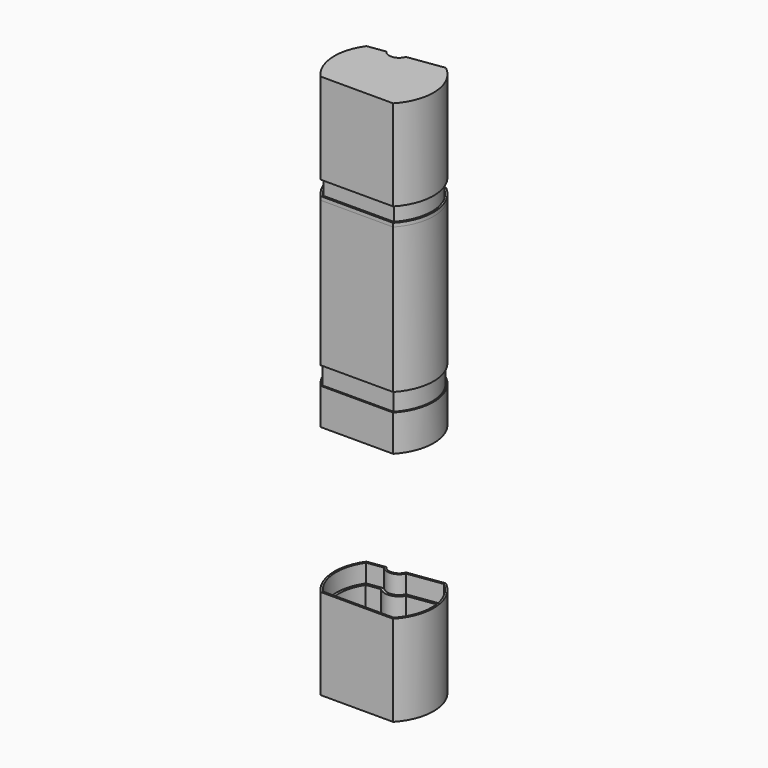
from build123d import *

# Parameters (mm, degrees)
F1_DEPTH  = 100
F3_DEPTH  = 10
F5_DEPTH  = 10
F7_DEPTH  = 2
F9_DEPTH  = 50
F10_DEPTH = 10
F11_START = 48
F11_DEPTH = 2
F13_DEPTH = 20


with BuildPart() as f1:
    # F0 (on Top) → F1 (new body)
    with BuildSketch(Plane.XY):
        with BuildLine():
            Line((-12.0897765349, -15.731314094), (27.9102234651, -15.731314094))
            ThreePointArc((27.9102234651, -15.731314094), (35.186552736, 4.9027765722), (25.0045970812, 24.268685906))
            Line((25.0045970812, 24.268685906), (5.1992357064, 21.4852238868))
            ThreePointArc((5.1992357064, 21.4852238868), (0.7654520553, 17.832613514), (-4.5033702016, 20.1216115537))
            Line((-4.5033702016, 20.1216115537), (-14.406050889, 18.7298805441))
            ThreePointArc((-14.406050889, 18.7298805441), (-19.3764079278, 1.0873626828), (-12.0897765349, -15.731314094))
        make_face()
        with BuildLine():
            ThreePointArc((-11.0175789214, -13.331314094), (-16.9820661814, 1.2521155975), (-13.0181733872, 16.5013478326))
            Line((-13.0181733872, 16.5013478326), (-5.4545185869, 17.5643501916))
            ThreePointArc((-5.4545185869, 17.5643501916), (1.0994674976, 15.455970149), (6.8184149763, 19.2891985189))
            Line((6.8184149763, 19.2891985189), (24.284750464, 21.7439318875))
            ThreePointArc((24.284750464, 21.7439318875), (32.7925833849, 4.7326981573), (26.8380258517, -13.331314094))
            Line((26.8380258517, -13.331314094), (-11.0175789214, -13.331314094))
        make_face(mode=Mode.SUBTRACT)
    extrude(amount=F1_DEPTH)

    # F2 (on face) → F3 (cut)
    with BuildSketch(Plane(origin=(0, 0, 0), x_dir=(1, 0, 0), z_dir=(0, 0, -1))):
        with BuildLine():
            Line((27.9102234651, 15.731314094), (-12.0897765349, 15.731314094))
            ThreePointArc((-12.0897765349, 15.731314094), (-19.3764079278, -1.0873626828), (-14.406050889, -18.7298805441))
            Line((-14.406050889, -18.7298805441), (-4.5033702016, -20.1216115537))
            ThreePointArc((-4.5033702016, -20.1216115537), (0.7654520553, -17.832613514), (5.1992357064, -21.4852238868))
            Line((5.1992357064, -21.4852238868), (25.0045970812, -24.268685906))
            ThreePointArc((25.0045970812, -24.268685906), (35.186552736, -4.9027765722), (27.9102234651, 15.731314094))
        make_face()
        with BuildLine():
            ThreePointArc((5.7736073555, -20.7580844998), (0.876790536, -17.040399059), (-4.8550648892, -19.2643220307))
            Line((-4.8550648892, -19.2643220307), (-13.9498000809, -17.9861403555))
            ThreePointArc((-13.9498000809, -17.9861403555), (-18.5782946315, -1.1422885446), (-11.7388791707, 14.931314094))
            Line((-11.7388791707, 14.931314094), (27.559326101, 14.931314094))
            ThreePointArc((27.559326101, 14.931314094), (34.3885624209, -4.846091997), (24.7710232347, -23.4279971846))
            Line((24.7710232347, -23.4279971846), (5.7736073555, -20.7580844998))
        make_face(mode=Mode.SUBTRACT)
    extrude(amount=-F3_DEPTH, mode=Mode.SUBTRACT)

    # F4 (on face) → F5 (cut)
    with BuildSketch(Plane.XY.offset(100)):
        with BuildLine():
            Line((-4.5033702016, 20.1216115537), (-14.406050889, 18.7298805441))
            ThreePointArc((-14.406050889, 18.7298805441), (-19.3764079278, 1.0873626828), (-12.0897765349, -15.731314094))
            Line((-12.0897765349, -15.731314094), (27.9102234651, -15.731314094))
            ThreePointArc((27.9102234651, -15.731314094), (35.186552736, 4.9027765722), (25.0045970812, 24.268685906))
            Line((25.0045970812, 24.268685906), (5.1992357064, 21.4852238868))
            ThreePointArc((5.1992357064, 21.4852238868), (0.7654520553, 17.832613514), (-4.5033702016, 20.1216115537))
        make_face()
        with BuildLine():
            ThreePointArc((-11.5610592762, -14.531314094), (-18.1792377522, 1.1697483945), (-13.7193495518, 17.6145970362))
            Line((-13.7193495518, 17.6145970362), (-5.0163959343, 18.837717402))
            ThreePointArc((-5.0163959343, 18.837717402), (0.9324597764, 16.6442918315), (6.0462768814, 20.3924746735))
            Line((6.0462768814, 20.3924746735), (24.6519111864, 23.0073260489))
            ThreePointArc((24.6519111864, 23.0073260489), (33.9895674633, 4.8177466261), (27.3815062065, -14.531314094))
            Line((27.3815062065, -14.531314094), (-11.5610592762, -14.531314094))
        make_face(mode=Mode.SUBTRACT)
    extrude(amount=-F5_DEPTH, mode=Mode.SUBTRACT)


with BuildPart() as f7:
    # F6 (on face) → F7 (new body)
    with BuildSketch(Plane.XY.offset(90)):
        with BuildLine():
            Line((-4.5033702016, 20.1216115537), (-14.406050889, 18.7298805441))
            ThreePointArc((-14.406050889, 18.7298805441), (-19.3764079278, 1.0873626828), (-12.0897765349, -15.731314094))
            Line((-12.0897765349, -15.731314094), (27.9102234651, -15.731314094))
            ThreePointArc((27.9102234651, -15.731314094), (35.186552736, 4.9027765722), (25.0045970812, 24.268685906))
            Line((25.0045970812, 24.268685906), (5.1992357064, 21.4852238868))
            ThreePointArc((5.1992357064, 21.4852238868), (0.7654520553, 17.832613514), (-4.5033702016, 20.1216115537))
        make_face()
        with BuildLine():
            ThreePointArc((-11.6501712904, -14.731314094), (-18.3787662112, 1.1560187267), (-13.8347729453, 17.8003408506))
            Line((-13.8347729453, 17.8003408506), (-4.9368157389, 19.0508671835))
            ThreePointArc((-4.9368157389, 19.0508671835), (0.9046251562, 16.8423454453), (5.9110274456, 20.5754321194))
            Line((5.9110274456, 20.5754321194), (24.7116653394, 23.217689462))
            ThreePointArc((24.7116653394, 23.217689462), (34.1890649255, 4.8319195689), (27.4706182207, -14.731314094))
            Line((27.4706182207, -14.731314094), (-11.6501712904, -14.731314094))
        make_face(mode=Mode.SUBTRACT)
    extrude(amount=F7_DEPTH)


with BuildPart() as f9:
    # F8 (on face) → F9 (new body)
    with BuildSketch(Plane.XY.offset(100)):
        with BuildLine():
            Line((-4.5033702016, 20.1216115537), (-14.406050889, 18.7298805441))
            ThreePointArc((-14.406050889, 18.7298805441), (-19.3764079278, 1.0873626828), (-12.0897765349, -15.731314094))
            Line((-12.0897765349, -15.731314094), (27.9102234651, -15.731314094))
            ThreePointArc((27.9102234651, -15.731314094), (35.186552736, 4.9027765722), (25.0045970812, 24.268685906))
            Line((25.0045970812, 24.268685906), (5.1992357064, 21.4852238868))
            ThreePointArc((5.1992357064, 21.4852238868), (0.7654520553, 17.832613514), (-4.5033702016, 20.1216115537))
        make_face()
        with BuildLine():
            Line((-13.8347729453, 17.8003408506), (-4.9368157389, 19.0508671835))
            ThreePointArc((-4.9368157389, 19.0508671835), (0.9046251562, 16.8423454453), (5.9110274456, 20.5754321194))
            Line((5.9110274456, 20.5754321194), (24.7116653394, 23.217689462))
            ThreePointArc((24.7116653394, 23.217689462), (34.1890649255, 4.8319195689), (27.4706182207, -14.731314094))
            Line((27.4706182207, -14.731314094), (-11.6501712904, -14.731314094))
            ThreePointArc((-11.6501712904, -14.731314094), (-18.3787662112, 1.1560187267), (-13.8347729453, 17.8003408506))
        make_face(mode=Mode.SUBTRACT)
        with BuildLine():
            ThreePointArc((5.9110274456, 20.5754321194), (0.9046251562, 16.8423454453), (-4.9368157389, 19.0508671835))
            Line((-4.9368157389, 19.0508671835), (-13.8347729453, 17.8003408506))
            ThreePointArc((-13.8347729453, 17.8003408506), (-18.3787662112, 1.1560187267), (-11.6501712904, -14.731314094))
            Line((-11.6501712904, -14.731314094), (27.4706182207, -14.731314094))
            ThreePointArc((27.4706182207, -14.731314094), (34.1890649255, 4.8319195689), (24.7116653394, 23.217689462))
            Line((24.7116653394, 23.217689462), (5.9110274456, 20.5754321194))
        make_face()
        with BuildLine():
            ThreePointArc((-11.5610592762, -14.531314094), (-18.1792377522, 1.1697483945), (-13.7193495518, 17.6145970362))
            Line((-13.7193495518, 17.6145970362), (-5.0163959343, 18.837717402))
            ThreePointArc((-5.0163959343, 18.837717402), (0.9324597764, 16.6442918315), (6.0462768814, 20.3924746735))
            Line((6.0462768814, 20.3924746735), (24.6519111864, 23.0073260489))
            ThreePointArc((24.6519111864, 23.0073260489), (33.9895674633, 4.8177466261), (27.3815062065, -14.531314094))
            Line((27.3815062065, -14.531314094), (-11.5610592762, -14.531314094))
        make_face(mode=Mode.SUBTRACT)
        with BuildLine():
            Line((-5.0163959343, 18.837717402), (-13.7193495518, 17.6145970362))
            ThreePointArc((-13.7193495518, 17.6145970362), (-18.1792377522, 1.1697483945), (-11.5610592762, -14.531314094))
            Line((-11.5610592762, -14.531314094), (27.3815062065, -14.531314094))
            ThreePointArc((27.3815062065, -14.531314094), (33.9895674633, 4.8177466261), (24.6519111864, 23.0073260489))
            Line((24.6519111864, 23.0073260489), (6.0462768814, 20.3924746735))
            ThreePointArc((6.0462768814, 20.3924746735), (0.9324597764, 16.6442918315), (-5.0163959343, 18.837717402))
        make_face()
        with BuildLine():
            ThreePointArc((-11.0175789214, -13.331314094), (-16.9820661814, 1.2521155975), (-13.0181733872, 16.5013478326))
            Line((-13.0181733872, 16.5013478326), (-5.4545185869, 17.5643501916))
            ThreePointArc((-5.4545185869, 17.5643501916), (1.0994674976, 15.455970149), (6.8184149763, 19.2891985189))
            Line((6.8184149763, 19.2891985189), (24.284750464, 21.7439318875))
            ThreePointArc((24.284750464, 21.7439318875), (32.7925833849, 4.7326981573), (26.8380258517, -13.331314094))
            Line((26.8380258517, -13.331314094), (-11.0175789214, -13.331314094))
        make_face(mode=Mode.SUBTRACT)
    extrude(amount=F9_DEPTH)

    # F8 (on face) → F10 (cut)
    with BuildSketch(Plane.XY.offset(100)):
        with BuildLine():
            ThreePointArc((5.9110274456, 20.5754321194), (0.9046251562, 16.8423454453), (-4.9368157389, 19.0508671835))
            Line((-4.9368157389, 19.0508671835), (-13.8347729453, 17.8003408506))
            ThreePointArc((-13.8347729453, 17.8003408506), (-18.3787662112, 1.1560187267), (-11.6501712904, -14.731314094))
            Line((-11.6501712904, -14.731314094), (27.4706182207, -14.731314094))
            ThreePointArc((27.4706182207, -14.731314094), (34.1890649255, 4.8319195689), (24.7116653394, 23.217689462))
            Line((24.7116653394, 23.217689462), (5.9110274456, 20.5754321194))
        make_face()
        with BuildLine():
            ThreePointArc((-11.5610592762, -14.531314094), (-18.1792377522, 1.1697483945), (-13.7193495518, 17.6145970362))
            Line((-13.7193495518, 17.6145970362), (-5.0163959343, 18.837717402))
            ThreePointArc((-5.0163959343, 18.837717402), (0.9324597764, 16.6442918315), (6.0462768814, 20.3924746735))
            Line((6.0462768814, 20.3924746735), (24.6519111864, 23.0073260489))
            ThreePointArc((24.6519111864, 23.0073260489), (33.9895674633, 4.8177466261), (27.3815062065, -14.531314094))
            Line((27.3815062065, -14.531314094), (-11.5610592762, -14.531314094))
        make_face(mode=Mode.SUBTRACT)
        with BuildLine():
            Line((-5.0163959343, 18.837717402), (-13.7193495518, 17.6145970362))
            ThreePointArc((-13.7193495518, 17.6145970362), (-18.1792377522, 1.1697483945), (-11.5610592762, -14.531314094))
            Line((-11.5610592762, -14.531314094), (27.3815062065, -14.531314094))
            ThreePointArc((27.3815062065, -14.531314094), (33.9895674633, 4.8177466261), (24.6519111864, 23.0073260489))
            Line((24.6519111864, 23.0073260489), (6.0462768814, 20.3924746735))
            ThreePointArc((6.0462768814, 20.3924746735), (0.9324597764, 16.6442918315), (-5.0163959343, 18.837717402))
        make_face()
        with BuildLine():
            ThreePointArc((-11.0175789214, -13.331314094), (-16.9820661814, 1.2521155975), (-13.0181733872, 16.5013478326))
            Line((-13.0181733872, 16.5013478326), (-5.4545185869, 17.5643501916))
            ThreePointArc((-5.4545185869, 17.5643501916), (1.0994674976, 15.455970149), (6.8184149763, 19.2891985189))
            Line((6.8184149763, 19.2891985189), (24.284750464, 21.7439318875))
            ThreePointArc((24.284750464, 21.7439318875), (32.7925833849, 4.7326981573), (26.8380258517, -13.331314094))
            Line((26.8380258517, -13.331314094), (-11.0175789214, -13.331314094))
        make_face(mode=Mode.SUBTRACT)
    extrude(amount=F10_DEPTH, mode=Mode.SUBTRACT)

    # F8 (on face) → F11 (join)
    with BuildSketch(Plane.XY.offset(100).offset(F11_START)):
        with BuildLine():
            Line((-5.4545185869, 17.5643501916), (-13.0181733872, 16.5013478326))
            ThreePointArc((-13.0181733872, 16.5013478326), (-16.9820661814, 1.2521155975), (-11.0175789214, -13.331314094))
            Line((-11.0175789214, -13.331314094), (26.8380258517, -13.331314094))
            ThreePointArc((26.8380258517, -13.331314094), (32.7925833849, 4.7326981573), (24.284750464, 21.7439318875))
            Line((24.284750464, 21.7439318875), (6.8184149763, 19.2891985189))
            ThreePointArc((6.8184149763, 19.2891985189), (1.0994674976, 15.455970149), (-5.4545185869, 17.5643501916))
        make_face()
    extrude(amount=F11_DEPTH)


with BuildPart() as f13:
    # F12 (on face) → F13 (new body)
    with BuildSketch(Plane(origin=(0, 0, 0), x_dir=(1, 0, 0), z_dir=(0, 0, -1))):
        with BuildLine():
            ThreePointArc((-12.0897765349, 15.731314094), (-19.3764079278, -1.0873626828), (-14.406050889, -18.7298805441))
            Line((-14.406050889, -18.7298805441), (-4.5033702016, -20.1216115537))
            ThreePointArc((-4.5033702016, -20.1216115537), (0.7654520553, -17.832613514), (5.1992357064, -21.4852238868))
            Line((5.1992357064, -21.4852238868), (25.0045970812, -24.268685906))
            ThreePointArc((25.0045970812, -24.268685906), (35.186552736, -4.9027765722), (27.9102234651, 15.731314094))
            Line((27.9102234651, 15.731314094), (-12.0897765349, 15.731314094))
        make_face()
        with BuildLine():
            ThreePointArc((5.9110274456, -20.5754321194), (0.9046251562, -16.8423454453), (-4.9368157389, -19.0508671835))
            Line((-4.9368157389, -19.0508671835), (-13.8347729453, -17.8003408506))
            ThreePointArc((-13.8347729453, -17.8003408506), (-18.3787662112, -1.1560187267), (-11.6501712904, 14.731314094))
            Line((-11.6501712904, 14.731314094), (27.4706182207, 14.731314094))
            ThreePointArc((27.4706182207, 14.731314094), (34.1890649255, -4.8319195689), (24.7116653394, -23.217689462))
            Line((24.7116653394, -23.217689462), (5.9110274456, -20.5754321194))
        make_face(mode=Mode.SUBTRACT)
    extrude(amount=F13_DEPTH)


with BuildPart() as f14_1:
    # F14: instance of F9
    add(f9.part.mirror(Plane.XY))


solid = Compound([f1.part, f7.part, f9.part, f13.part, f14_1.part])
